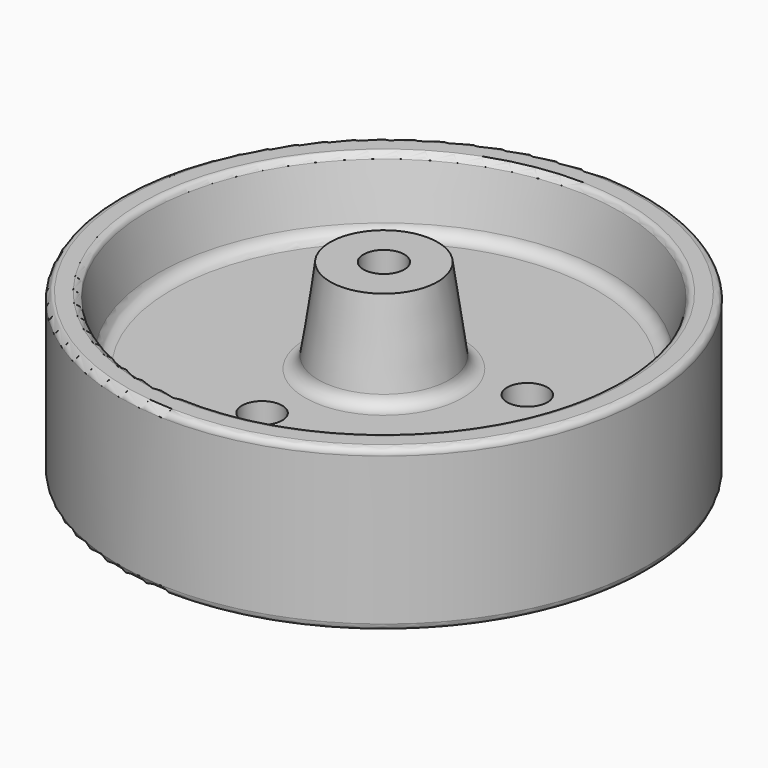
from build123d import *

# Parameters (mm, degrees)
F3_D = 9.525
F4_D = 9.525
F5_D = 9.525


with BuildPart() as f1:
    # F0 (on Front) → F1 (revolve)
    with BuildSketch(Plane.XZ):
        with BuildLine():
            ThreePointArc((-118.164087, 32.996765), (-119.286619, 32.531797), (-119.751587, 31.409265))
            Line((-119.751587, 31.409265), (-119.751587, 13.946765))
            Line((-119.751587, 13.946765), (-119.751587, -3.515735))
            ThreePointArc((-119.751587, -3.515735), (-119.286619, -4.638267), (-118.164087, -5.103235))
            Line((-118.164087, -5.103235), (-114.703026, -5.103235))
            ThreePointArc((-114.703026, -5.103235), (-113.696568, -4.743416), (-113.146354, -3.82707))
            Line((-113.146354, -3.82707), (-110.737053, 8.219433))
            ThreePointArc((-110.737053, 8.219433), (-109.636624, 10.052126), (-107.62371, 10.771765))
            Line((-107.62371, 10.771765), (-76.094846, 10.771765))
            ThreePointArc((-76.094846, 10.771765), (-74.01458, 9.995331), (-72.951756, 8.045778))
            Line((-72.951756, 8.045778), (-70.166183, -11.453235))
            Line((-70.166183, -11.453235), (-62.165927, -11.453235))
            Line((-62.165927, -11.453235), (-62.165927, 13.946765))
            Line((-62.165927, 13.946765), (-62.165927, 39.346765))
            Line((-62.165927, 39.346765), (-70.039927, 39.346765))
            Line((-70.039927, 39.346765), (-72.8255, 19.847752))
            ThreePointArc((-72.8255, 19.847752), (-73.888325, 17.898198), (-75.96859, 17.121765))
            Line((-75.96859, 17.121765), (-107.62371, 17.121765))
            ThreePointArc((-107.62371, 17.121765), (-109.636624, 17.841403), (-110.737053, 19.674096))
            Line((-110.737053, 19.674096), (-113.146354, 31.720599))
            ThreePointArc((-113.146354, 31.720599), (-113.696568, 32.636945), (-114.703026, 32.996765))
            Line((-114.703026, 32.996765), (-118.164087, 32.996765))
        make_face()
    revolve(axis=Axis((-57.339927, 0, 26.656945), (0, 0, -1)))

    # F3 (through all)
    with Locations(Plane(origin=(0, 0, 10.771765), x_dir=(1, 0, 0), z_dir=(0, 0, -1))):
        with Locations((-78.393657, -19.456912)):
            Hole(F3_D / 2)

    # F4 (through all)
    with Locations(Plane(origin=(0, 0, 10.771765), x_dir=(1, 0, 0), z_dir=(0, 0, -1))):
        with Locations((-30.152265, -8.395268)):
            Hole(F4_D / 2)

    # F5 (through all)
    with Locations(Plane(origin=(0, 0, 10.771765), x_dir=(1, 0, 0), z_dir=(0, 0, -1))):
        with Locations((-63.852626, 27.852181)):
            Hole(F5_D / 2)


solid = f1.part
